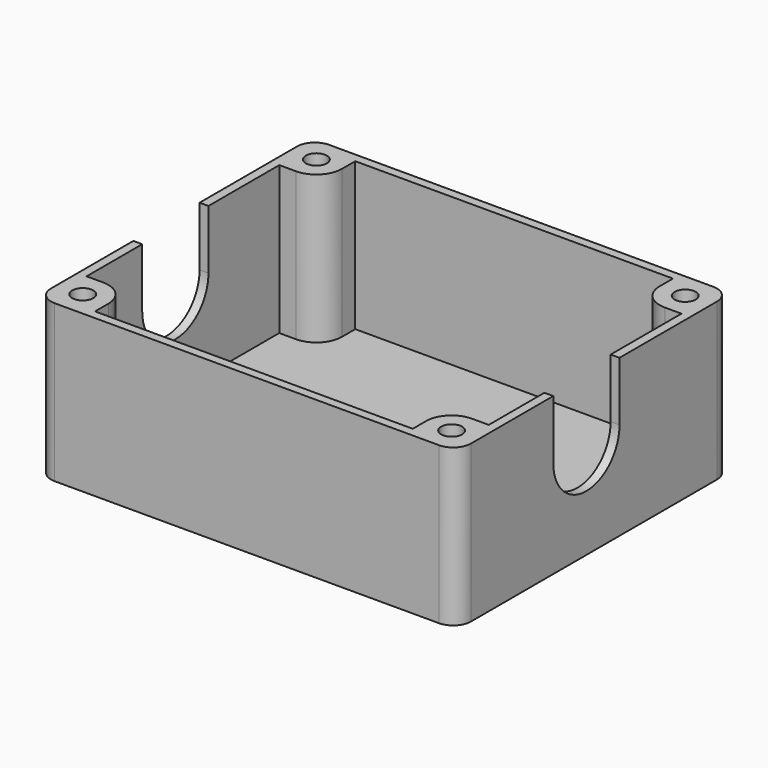
from build123d import *

# Parameters (mm, degrees)
F0_W     = 71
F0_H     = 58
F1_DEPTH = 1.5
F3_R     = 1.778
F4_DEPTH = 25
F6_DEPTH = 71.001
F7_R     = 3


with BuildPart() as f1:
    # F0 (on Top) → F1 (new body)
    with BuildSketch(Plane.XY):
        Rectangle(F0_W, F0_H)
    extrude(amount=F1_DEPTH)

    # F3 (on face) → F4 (join)
    with BuildSketch(Plane.XY.offset(1.5)):
        Polygon((35.5, -29), (35.5, 29), (-31.925, 29), (-35.5, 29), (-35.5, 23.9875), (-35.5, -29), align=None)
        with Locations((-31.182, -24.682)):
            Circle(F3_R, mode=Mode.SUBTRACT)
        with Locations((31.182, -24.682)):
            Circle(F3_R, mode=Mode.SUBTRACT)
        with Locations((-31.182, 24.682)):
            Circle(F3_R, mode=Mode.SUBTRACT)
        with BuildLine():
            Line((-26.864, 27.5), (26.864, 27.5))
            Line((26.864, 27.5), (26.864, 24.682))
            ThreePointArc((26.864, 24.682), (28.1287129188, 21.6287129188), (31.182, 20.364))
            Line((31.182, 20.364), (34, 20.364))
            Line((34, 20.364), (34, -20.364))
            Line((34, -20.364), (31.182, -20.364))
            ThreePointArc((31.182, -20.364), (28.1287129188, -21.6287129188), (26.864, -24.682))
            Line((26.864, -24.682), (26.864, -27.5))
            Line((26.864, -27.5), (-26.864, -27.5))
            Line((-26.864, -27.5), (-26.864, -24.682))
            ThreePointArc((-26.864, -24.682), (-28.1287129188, -21.6287129188), (-31.182, -20.364))
            Line((-31.182, -20.364), (-34, -20.364))
            Line((-34, -20.364), (-34, 20.364))
            Line((-34, 20.364), (-31.182, 20.364))
            ThreePointArc((-31.182, 20.364), (-28.1287129188, 21.6287129188), (-26.864, 24.682))
            Line((-26.864, 24.682), (-26.864, 27.5))
        make_face(mode=Mode.SUBTRACT)
        with Locations((31.182, 24.682)):
            Circle(F3_R, mode=Mode.SUBTRACT)
    extrude(amount=F4_DEPTH)

    # F5 (on face) → F6 (cut, through all)
    with BuildSketch(Plane.YZ.offset(35.5)):
        with BuildLine():
            Line((-8.60102, 26.5), (-8.60102, 16.5))
            ThreePointArc((-8.60102, 16.5), (-1.60102, 9.5), (5.39898, 16.5))
            Line((5.39898, 16.5), (5.39898, 26.5))
            Line((5.39898, 26.5), (-8.60102, 26.5))
        make_face()
    extrude(amount=-F6_DEPTH, mode=Mode.SUBTRACT)

    # F7
    f7_edges = [f1.edges().sort_by_distance(p)[0] for p in [
        (35.5, 29, 13.25),
        (35.5, -29, 13.25),
        (-35.5, 29, 13.25),
        (-35.5, -29, 13.25),
    ]]
    fillet(f7_edges, radius=F7_R)


solid = f1.part
